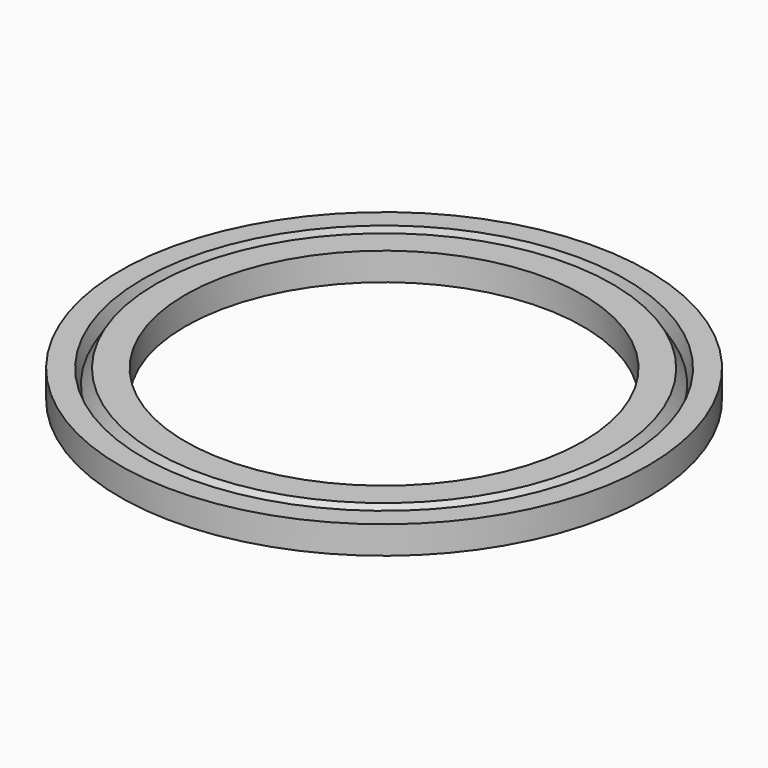
from build123d import *

# Parameters (mm, degrees)
F0_W = 11.634353
F0_H = 4.958903


with BuildPart() as f1:
    # F0 (on Front) → F1 (revolve)
    with BuildSketch(Plane.XZ):
        with Locations((41.279511, -3.765556)):
            Rectangle(F0_W, F0_H)
    revolve(axis=Axis((0, 0, 18.222498), (0, 0, 1)))

    # F2 (on Front) → F3 (revolve, cut)
    with BuildSketch(Plane.XZ):
        Polygon((-38.6305, 2.097966), (-44.131756, 2.097966), (-42.248502, -3.797438), align=None)
    revolve(axis=Axis((0, 0, 18.222498), (0, 0, 1)), mode=Mode.SUBTRACT)


solid = f1.part
